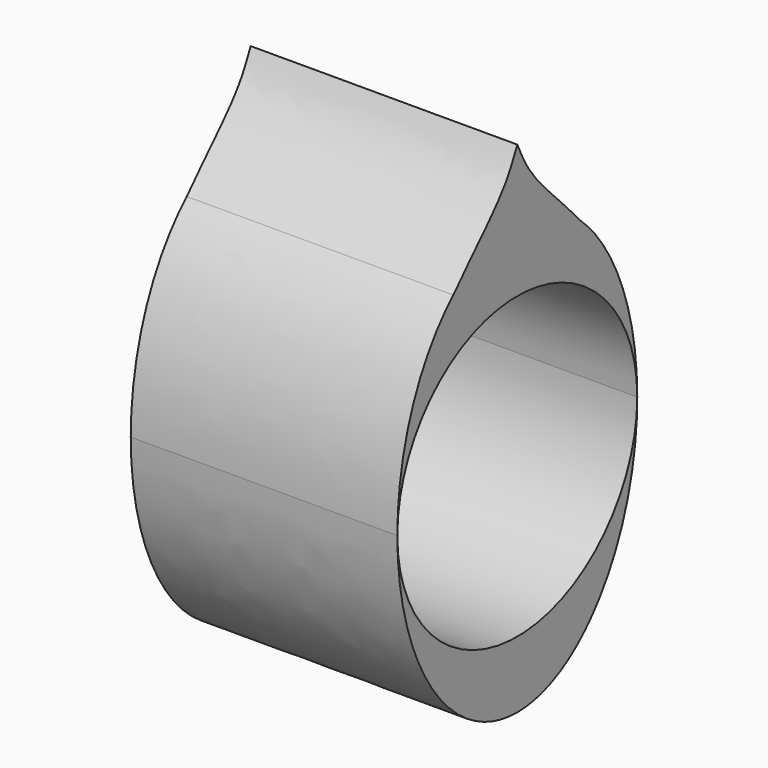
from build123d import *

# Parameters (mm, degrees)
F1_DEPTH = 101.6


with BuildPart() as f1:
    # F0 (on Right) → F1 (new body)
    with BuildSketch(Plane.YZ):
        with BuildLine():
            ThreePointArc((-57.15, 4.662e-07), (2.331e-07, 57.15), (57.15, 0))
            add(Edge.make_bspline(
                [(57.15, 0), (57.15, 45.5660748492), (30.4574472777, 69.85)],
                knots=[4.7123889804, 4.7123889804, 4.7123889804, 5.7211155042, 5.7211155042, 5.7211155042], degree=2, weights=[1, 0.8754823556, 1]))
            add(Edge.make_bspline(
                [(30.4574472777, 69.85), (22.353595846, 79.0299545271), (6.1492050592, 93.7377079612), (1.8810714701, 104.0494172792), (0, 107.95)],
                knots=[0, 0, 0, 0, 0.6063584653, 1, 1, 1, 1], degree=3))
            add(Edge.make_bspline(
                [(-30.4574472777, 69.85), (-22.353595846, 79.0299545271), (-6.1492050592, 93.7377079612), (-1.8810714701, 104.0494172792), (0, 107.95)],
                knots=[0, 0, 0, 0, 0.6063584653, 1, 1, 1, 1], degree=3))
            add(Edge.make_bspline(
                [(-30.4574472777, 69.85), (-57.1499998218, 45.5660750112), (-57.15, 4.662e-07)],
                knots=[0.562069803, 0.562069803, 0.562069803, 1.5707963211, 1.5707963211, 1.5707963211], degree=2, weights=[1, 0.875482357, 1]))
        make_face()
    extrude(amount=F1_DEPTH)


with BuildPart() as f1b:
    # F0 (on Right) → F1, piece 2 (new body)
    with BuildSketch(Plane.YZ):
        with BuildLine():
            add(Edge.make_bspline(
                [(-57.15, 4.662e-07), (-57.1500003228, -82.5499997669), (-1.614e-07, -82.55), (57.15, -82.5500002331), (57.15, 0)],
                knots=[1.5707963211, 1.5707963211, 1.5707963211, 3.1415926508, 3.1415926508, 4.7123889804, 4.7123889804, 4.7123889804], degree=2, weights=[1, 0.7071067802, 1, 0.7071067802, 1]))
            ThreePointArc((57.15, 0), (-2.331e-07, -57.15), (-57.15, 4.662e-07))
        make_face()
    extrude(amount=F1_DEPTH)


solid = Compound([f1.part, f1b.part])
